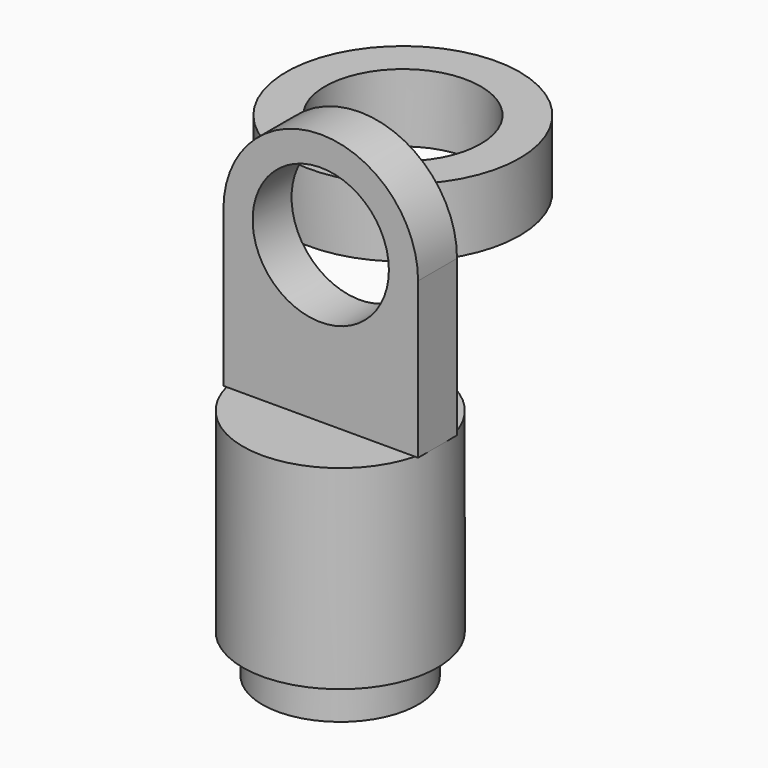
from build123d import *

# Parameters (mm, degrees)
F2_DEPTH = 1.25
F3_R     = 6
F3_R_2   = 4
F4_DEPTH = 3.5


with BuildPart() as f1:
    # F0 (on Front) → F1 (revolve)
    with BuildSketch(Plane.XZ):
        Polygon((-4, 0), (-1.5, 0), (-1.5, 8), (0, 8), (0, 12), (-5, 12), (-5, 2), (-4, 2), align=None)
    revolve(axis=Axis((0, 0, -14.899148), (0, 0, -1)))

    # F0 (on Front) → F2 (join, symmetric)
    with BuildSketch(Plane.XZ):
        with BuildLine():
            ThreePointArc((5, 20), (0, 25), (-5, 20))
            Line((-5, 20), (-3.5, 20))
            ThreePointArc((-3.5, 20), (0, 23.5), (3.5, 20))
            Line((3.5, 20), (5, 20))
        make_face()
        with BuildLine():
            Line((-5, 12), (0, 12))
            Line((0, 12), (5, 12))
            Line((5, 12), (5, 20))
            Line((5, 20), (3.5, 20))
            ThreePointArc((3.5, 20), (0, 16.5), (-3.5, 20))
            Line((-3.5, 20), (-5, 20))
            Line((-5, 20), (-5, 12))
        make_face()
    extrude(amount=F2_DEPTH, both=True)


with BuildPart() as f4:
    # F3 (on Top) → F4 (new body)
    with BuildSketch(Plane.XY):
        with Locations((-24.271946, 34.365591)):
            Circle(F3_R)
        with Locations((-24.271946, 34.365591)):
            Circle(F3_R_2, mode=Mode.SUBTRACT)
    extrude(amount=F4_DEPTH)


solid = Compound([f1.part, f4.part])
